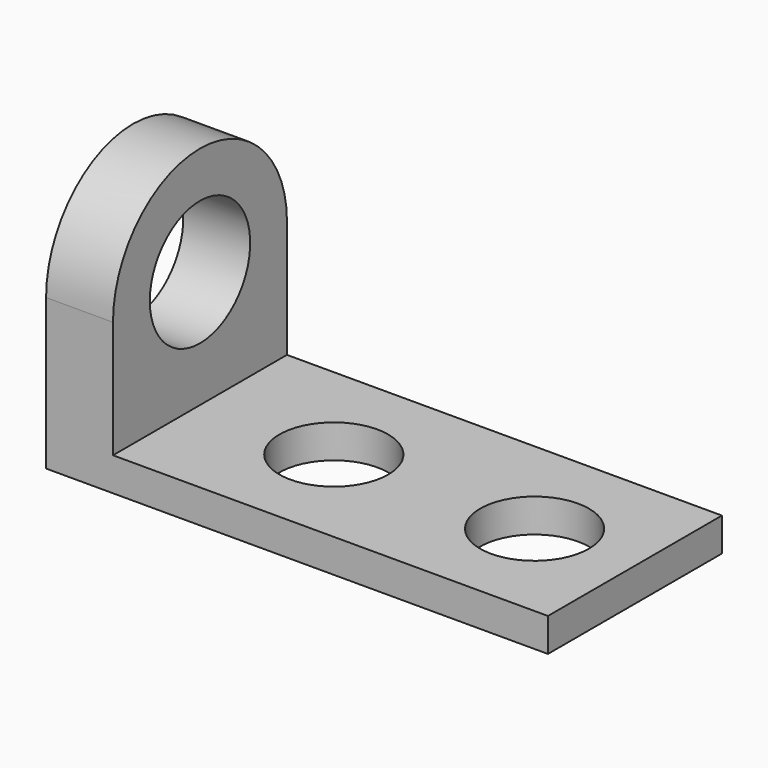
from build123d import *

# Parameters (mm, degrees)
F1_DEPTH = 82.55
F2_R     = 20.6375
F3_DEPTH = 12.7
F5_DEPTH = 25.4
F6_R     = 23.8125
F7_DEPTH = 25.4


with BuildPart() as f1:
    # F0 (on Front) → F1 (new body)
    with BuildSketch(Plane.XZ):
        Polygon((0, 139.7), (0, 0), (190.5, 0), (190.5, 12.7), (25.4, 12.7), (25.4, 139.7), align=None)
    extrude(amount=F1_DEPTH)

    # F2 (on face) → F3 (cut, through all)
    with BuildSketch(Plane.XY.offset(12.7)):
        with Locations((76.2, -41.275)):
            Circle(F2_R)
        with Locations((152.4, -41.275)):
            Circle(F2_R)
    extrude(amount=-F3_DEPTH, mode=Mode.SUBTRACT)

    # F4 (on face) → F5 (cut)
    with BuildSketch(Plane(origin=(0, 0, 0), x_dir=(0, -1, 0), z_dir=(-1, 0, 0))):
        with BuildLine():
            ThreePointArc((0, 57.15), (41.275, 98.425), (82.55, 57.15))
            Line((82.55, 57.15), (82.55, 139.7))
            Line((82.55, 139.7), (0, 139.7))
            Line((0, 139.7), (0, 57.15))
        make_face()
    extrude(amount=-F5_DEPTH, mode=Mode.SUBTRACT)

    # F6 (on face) → F7 (cut, through all)
    with BuildSketch(Plane(origin=(0, 0, 0), x_dir=(0, -1, 0), z_dir=(-1, 0, 0))):
        with Locations((41.275, 57.15)):
            Circle(F6_R)
    extrude(amount=-F7_DEPTH, mode=Mode.SUBTRACT)


solid = f1.part
